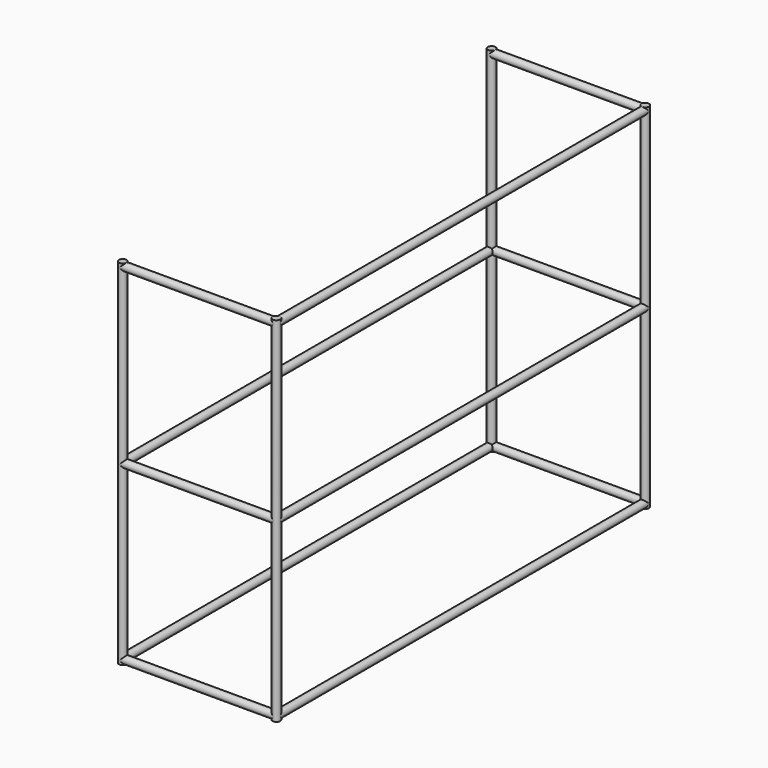
from build123d import *

# Parameters (mm, degrees)
F1_R          = 25
F2_DEPTH      = 2300
F3_R          = 25
F4_DEPTH      = 1500
F4_DEPTH_BACK = 1500
F5_R          = 25
F6_DEPTH      = 500
F6_DEPTH_BACK = 500
F7_R          = 25
F8_DEPTH      = 500
F8_DEPTH_BACK = 500


with BuildPart() as f2:
    # F1 (on Top) → F2 (new body)
    with BuildSketch(Plane.XY):
        with Locations((-500, 1500)):
            Circle(F1_R)
        with Locations((500, 1500)):
            Circle(F1_R)
        with Locations((500, -1500)):
            Circle(F1_R)
        with Locations((-500, -1500)):
            Circle(F1_R)
    extrude(amount=-F2_DEPTH)


with BuildPart() as f4:
    # F3 (on Front) → F4 (new body, two sides)
    with BuildSketch(Plane.XZ) as f4_sk:
        with Locations((500, -2275)):
            Circle(F3_R)
        with Locations((-500, -2275)):
            Circle(F3_R)
        with Locations((500, -25)):
            Circle(F3_R)
        with Locations((500, -1152.502756)):
            Circle(F3_R)
        with Locations((-500, -1152.502756)):
            Circle(F3_R)
    extrude(amount=F4_DEPTH)
    extrude(f4_sk.sketch, amount=-F4_DEPTH_BACK)


with BuildPart() as f6:
    # F5 (on face) → F6 (new body, two sides)
    with BuildSketch(Plane.YZ) as f6_sk:
        with Locations((-1500, -2275)):
            Circle(F5_R)
        with Locations((1500, -2275)):
            Circle(F5_R)
        with Locations((1500, -25)):
            Circle(F5_R)
        with Locations((-1500, -25)):
            Circle(F5_R)
    extrude(amount=F6_DEPTH)
    extrude(f6_sk.sketch, amount=-F6_DEPTH_BACK)


with BuildPart() as f8:
    # F7 (on face) → F8 (new body, two sides)
    with BuildSketch(Plane.YZ) as f8_sk:
        with Locations((-1500, -1152.502756)):
            Circle(F7_R)
        with Locations((1500, -1152.502756)):
            Circle(F7_R)
    extrude(amount=F8_DEPTH)
    extrude(f8_sk.sketch, amount=-F8_DEPTH_BACK)


solid = Compound([f2.part, f4.part, f6.part, f8.part])
